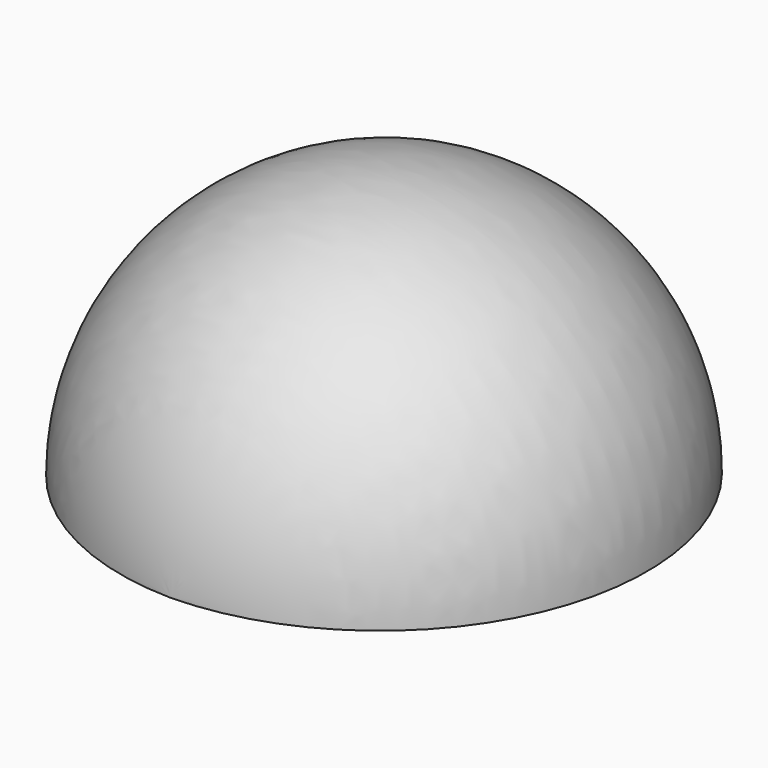
from build123d import *

# Parameters (mm, degrees)
F1_ANGLE = 180


with BuildPart() as f1:
    # F0 (on Top) → F1 (revolve)
    with BuildSketch(Plane.XY):
        with BuildLine():
            Line((0, 35.498981), (0, -34.492437))
            ThreePointArc((0, -34.492437), (34.451951, 0.503272), (0, 35.498981))
        make_face()
    revolve(axis=Axis((0, 0.503272, 0), (0, -1, 0)), revolution_arc=F1_ANGLE)

    # F2 (on face) → F3 (revolve, cut)
    with BuildSketch(Plane(origin=(0, 0, 0), x_dir=(1, 0, 0), z_dir=(0, 0, -1))):
        with BuildLine():
            Line((0, 0), (32.5, 0))
            ThreePointArc((32.5, 0), (0, 32.5), (-32.5, 0))
            Line((-32.5, 0), (0, 0))
        make_face()
    revolve(axis=Axis((16.25, 0, 0), (1, 0, 0)), mode=Mode.SUBTRACT)


solid = f1.part
